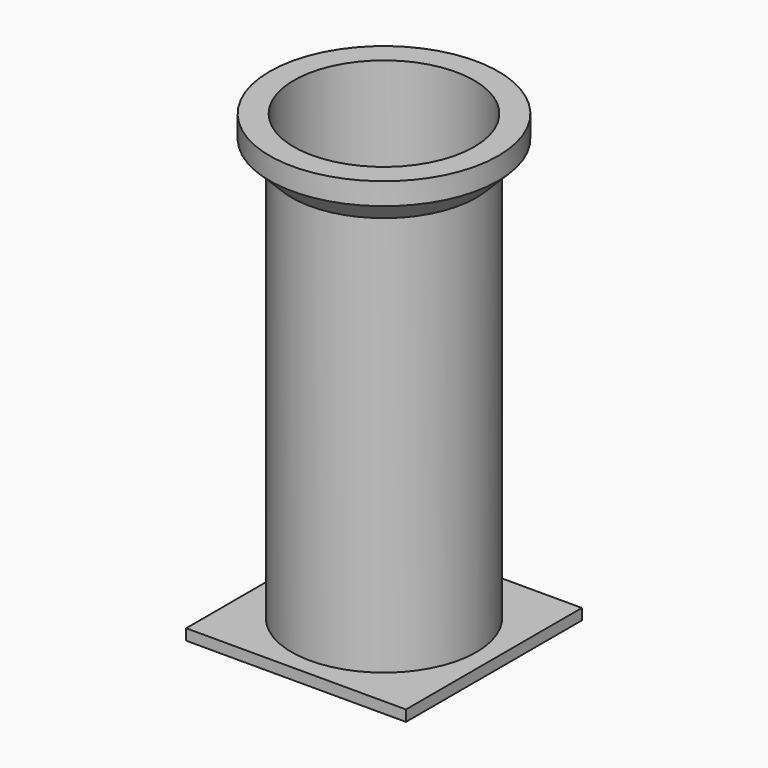
from build123d import *

# Parameters (mm, degrees)
CYLINDER_R        = 20.5
CYLINDER_DEPTH    = 120
CYLINDER002_R     = 26
CYLINDER002_DEPTH = 10
CHAMFER_SIZE      = 5
CYLINDER001_R     = 21
CYLINDER001_DEPTH = 100
BOX_W             = 50
BOX_H             = 50
BOX_DEPTH         = 2.5


with BuildPart() as cylinder:
    # Cylinder → Cylinder (new body)
    with BuildSketch(Plane(origin=(25, 25, 0), x_dir=(1, 0, 0), z_dir=(0, 0, 1))):
        Circle(CYLINDER_R)
    extrude(amount=CYLINDER_DEPTH)


with BuildPart() as chamfer_body:
    # Cylinder002 → Cylinder002 (new body)
    with BuildSketch(Plane(origin=(25, 25, 93.5), x_dir=(1, 0, 0), z_dir=(0, 0, 1))):
        Circle(CYLINDER002_R)
    extrude(amount=CYLINDER002_DEPTH)

    # Chamfer
    chamfer_edges = [chamfer_body.edges().sort_by_distance(p)[0] for p in [
        (-1, 25, 93.5),
    ]]
    chamfer(chamfer_edges, length=CHAMFER_SIZE)


with BuildPart() as fusion:
    # Cylinder001 → Cylinder001 (new body)
    with BuildSketch(Plane(origin=(25, 25, 0), x_dir=(1, 0, 0), z_dir=(0, 0, 1))):
        Circle(CYLINDER001_R)
    extrude(amount=CYLINDER001_DEPTH)

    # Fusion: union Chamfer body
    add(chamfer_body.part)


with BuildPart() as cut:
    # Box → Box (new body)
    with BuildSketch(Plane.XY):
        with Locations((25, 25)):
            Rectangle(BOX_W, BOX_H)
    extrude(amount=BOX_DEPTH)

    # Fusion001: union Fusion
    add(fusion.part)

    # Cut: cut Cylinder
    add(cylinder.part, mode=Mode.SUBTRACT)


solid = cut.part
